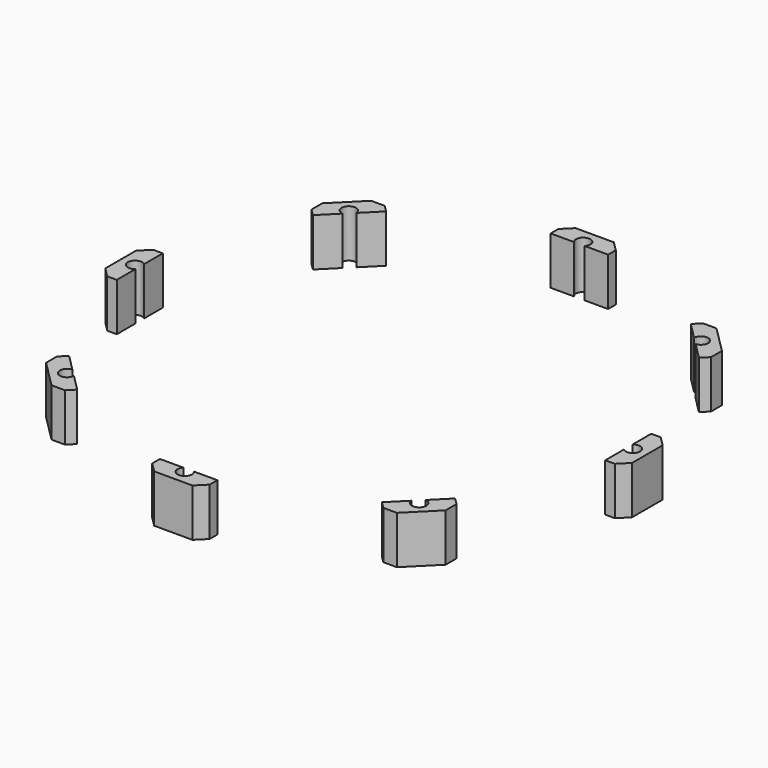
from build123d import *

# Parameters (mm, degrees)
CYLINDER1215_R               = 1.5
CYLINDER1215_DEPTH           = 50
CYLINDER1215_PLACEMENT_ANGLE = 45
CYLINDER1213_R               = 1.5
CYLINDER1213_DEPTH           = 50
CYLINDER1220_R               = 1.5
CYLINDER1220_DEPTH           = 50
CYLINDER1220_PLACEMENT_ANGLE = 135
CYLINDER1216_R               = 1.5
CYLINDER1216_DEPTH           = 50
CYLINDER1217_R               = 1.5
CYLINDER1217_DEPTH           = 50
CYLINDER1217_PLACEMENT_ANGLE = 225
CYLINDER1218_R               = 1.5
CYLINDER1218_DEPTH           = 50
CYLINDER1219_R               = 1.5
CYLINDER1219_DEPTH           = 50
CYLINDER1219_PLACEMENT_ANGLE = 45
CYLINDER1214_R               = 1.5
CYLINDER1214_DEPTH           = 50
BOX511_W                     = 4
BOX511_H                     = 12
BOX511_DEPTH                 = 10
CHAMFER018_SIZE              = 2
CHAMFER018_PLACEMENT_ANGLE   = 45
CHAMFER019_SIZE              = 2
CHAMFER019_PLACEMENT_ANGLE   = 90
CHAMFER020_SIZE              = 2
CHAMFER020_PLACEMENT_ANGLE   = 135
CHAMFER021_SIZE              = 2
CHAMFER021_PLACEMENT_ANGLE   = 180
CHAMFER022_SIZE              = 2
CHAMFER022_PLACEMENT_ANGLE   = 225
CHAMFER023_SIZE              = 2
CHAMFER023_PLACEMENT_ANGLE   = 90
CHAMFER024_SIZE              = 2
CHAMFER024_PLACEMENT_ANGLE   = 45
CHAMFER017_SIZE              = 2


with BuildPart() as obj1:
    # Cylinder1215 → Cylinder1215 (new body)
    with BuildSketch(Plane.XY):
        Circle(CYLINDER1215_R)
    extrude(amount=CYLINDER1215_DEPTH)


with BuildPart() as obj1_1:
    # Cylinder1215 placement: moved
    add(obj1.part.moved(Location((36.769553, 36.769553, 0))).rotate(Axis((36.769553, 36.769553, 0), (0, 0, 1)), CYLINDER1215_PLACEMENT_ANGLE))


with BuildPart() as obj2:
    # Cylinder1213 → Cylinder1213 (new body)
    with BuildSketch(Plane(origin=(0, 52, 0), x_dir=(0, 1, 0), z_dir=(0, 0, 1))):
        Circle(CYLINDER1213_R)
    extrude(amount=CYLINDER1213_DEPTH)


with BuildPart() as obj3:
    # Cylinder1220 → Cylinder1220 (new body)
    with BuildSketch(Plane.XY):
        Circle(CYLINDER1220_R)
    extrude(amount=CYLINDER1220_DEPTH)


with BuildPart() as obj3_1:
    # Cylinder1220 placement: moved
    add(obj3.part.moved(Location((-36.769553, 36.769553, 0))).rotate(Axis((-36.769553, 36.769553, 0), (0, 0, 1)), CYLINDER1220_PLACEMENT_ANGLE))


with BuildPart() as obj4:
    # Cylinder1216 → Cylinder1216 (new body)
    with BuildSketch(Plane(origin=(-52, 0, 0), x_dir=(-1, 0, 0), z_dir=(0, 0, 1))):
        Circle(CYLINDER1216_R)
    extrude(amount=CYLINDER1216_DEPTH)


with BuildPart() as obj5:
    # Cylinder1217 → Cylinder1217 (new body)
    with BuildSketch(Plane.XY):
        Circle(CYLINDER1217_R)
    extrude(amount=CYLINDER1217_DEPTH)


with BuildPart() as obj5_1:
    # Cylinder1217 placement: moved
    add(obj5.part.moved(Location((-36.769553, -36.769553, 0))).rotate(Axis((-36.769553, -36.769553, 0), (0, 0, 1)), CYLINDER1217_PLACEMENT_ANGLE))


with BuildPart() as obj6:
    # Cylinder1218 → Cylinder1218 (new body)
    with BuildSketch(Plane(origin=(0, -52, 0), x_dir=(0, -1, 0), z_dir=(0, 0, 1))):
        Circle(CYLINDER1218_R)
    extrude(amount=CYLINDER1218_DEPTH)


with BuildPart() as obj7:
    # Cylinder1219 → Cylinder1219 (new body)
    with BuildSketch(Plane.XY):
        Circle(CYLINDER1219_R)
    extrude(amount=CYLINDER1219_DEPTH)


with BuildPart() as obj7_1:
    # Cylinder1219 placement: moved
    add(obj7.part.moved(Location((36.769553, -36.769553, 0))).rotate(Axis((36.769553, -36.769553, 0), (0, 0, -1)), CYLINDER1219_PLACEMENT_ANGLE))


with BuildPart() as compound899:
    # Cylinder1214 → Cylinder1214 (new body)
    with BuildSketch(Plane(origin=(52, 0, 0), x_dir=(1, 0, 0), z_dir=(0, 0, 1))):
        Circle(CYLINDER1214_R)
    extrude(amount=CYLINDER1214_DEPTH)

    # Compound899: union obj1, obj2, obj3, obj4, obj5, obj6, obj7
    add(obj1_1.part)
    add(obj2.part)
    add(obj3_1.part)
    add(obj4.part)
    add(obj5_1.part)
    add(obj6.part)
    add(obj7_1.part)


with BuildPart() as compound899_1:
    # Compound899 placement: moved
    add(compound899.part.moved(Location((0, 0, -7))))


with BuildPart() as krychle511:
    # Box511 → Box511 (new body)
    with BuildSketch(Plane(origin=(51, -6, 12), x_dir=(1, 0, 0), z_dir=(0, 0, 1))):
        with Locations((2, 6)):
            Rectangle(BOX511_W, BOX511_H)
    extrude(amount=BOX511_DEPTH)


with BuildPart() as chamfer018:
    # Chamfer018 base: copy of Krychle511
    add(krychle511.part)

    # Chamfer018
    chamfer018_edges = [chamfer018.edges().sort_by_distance(p)[0] for p in [
        (55, -6, 17),
        (55, 6, 17),
    ]]
    chamfer(chamfer018_edges, length=CHAMFER018_SIZE)


with BuildPart() as chamfer018_1:
    # Chamfer018 placement: moved
    add(chamfer018.part.rotate(Axis((0, 0, 0), (0, 0, 1)), CHAMFER018_PLACEMENT_ANGLE))


with BuildPart() as chamfer019:
    # Chamfer019 base: copy of Krychle511
    add(krychle511.part)

    # Chamfer019
    chamfer019_edges = [chamfer019.edges().sort_by_distance(p)[0] for p in [
        (55, -6, 17),
        (55, 6, 17),
    ]]
    chamfer(chamfer019_edges, length=CHAMFER019_SIZE)


with BuildPart() as chamfer019_1:
    # Chamfer019 placement: moved
    add(chamfer019.part.rotate(Axis((0, 0, 0), (0, 0, 1)), CHAMFER019_PLACEMENT_ANGLE))


with BuildPart() as chamfer020:
    # Chamfer020 base: copy of Krychle511
    add(krychle511.part)

    # Chamfer020
    chamfer020_edges = [chamfer020.edges().sort_by_distance(p)[0] for p in [
        (55, -6, 17),
        (55, 6, 17),
    ]]
    chamfer(chamfer020_edges, length=CHAMFER020_SIZE)


with BuildPart() as chamfer020_1:
    # Chamfer020 placement: moved
    add(chamfer020.part.rotate(Axis((0, 0, 0), (0, 0, 1)), CHAMFER020_PLACEMENT_ANGLE))


with BuildPart() as chamfer021:
    # Chamfer021 base: copy of Krychle511
    add(krychle511.part)

    # Chamfer021
    chamfer021_edges = [chamfer021.edges().sort_by_distance(p)[0] for p in [
        (55, -6, 17),
        (55, 6, 17),
    ]]
    chamfer(chamfer021_edges, length=CHAMFER021_SIZE)


with BuildPart() as chamfer021_1:
    # Chamfer021 placement: moved
    add(chamfer021.part.rotate(Axis((0, 0, 0), (0, 0, 1)), CHAMFER021_PLACEMENT_ANGLE))


with BuildPart() as chamfer022:
    # Chamfer022 base: copy of Krychle511
    add(krychle511.part)

    # Chamfer022
    chamfer022_edges = [chamfer022.edges().sort_by_distance(p)[0] for p in [
        (55, -6, 17),
        (55, 6, 17),
    ]]
    chamfer(chamfer022_edges, length=CHAMFER022_SIZE)


with BuildPart() as chamfer022_1:
    # Chamfer022 placement: moved
    add(chamfer022.part.rotate(Axis((0, 0, 0), (0, 0, 1)), CHAMFER022_PLACEMENT_ANGLE))


with BuildPart() as chamfer023:
    # Chamfer023 base: copy of Krychle511
    add(krychle511.part)

    # Chamfer023
    chamfer023_edges = [chamfer023.edges().sort_by_distance(p)[0] for p in [
        (55, -6, 17),
        (55, 6, 17),
    ]]
    chamfer(chamfer023_edges, length=CHAMFER023_SIZE)


with BuildPart() as chamfer023_1:
    # Chamfer023 placement: moved
    add(chamfer023.part.rotate(Axis((0, 0, 0), (0, 0, -1)), CHAMFER023_PLACEMENT_ANGLE))


with BuildPart() as chamfer024:
    # Chamfer024 base: copy of Krychle511
    add(krychle511.part)

    # Chamfer024
    chamfer024_edges = [chamfer024.edges().sort_by_distance(p)[0] for p in [
        (55, -6, 17),
        (55, 6, 17),
    ]]
    chamfer(chamfer024_edges, length=CHAMFER024_SIZE)


with BuildPart() as chamfer024_1:
    # Chamfer024 placement: moved
    add(chamfer024.part.rotate(Axis((0, 0, 0), (0, 0, -1)), CHAMFER024_PLACEMENT_ANGLE))


with BuildPart() as cut449:
    # Chamfer017 base: copy of Krychle511
    add(krychle511.part)

    # Chamfer017
    chamfer017_edges = [cut449.edges().sort_by_distance(p)[0] for p in [
        (55, -6, 17),
        (55, 6, 17),
    ]]
    chamfer(chamfer017_edges, length=CHAMFER017_SIZE)

    # Compound901: union Chamfer018, Chamfer019, Chamfer020, Chamfer021, Chamfer022, Chamfer023, Chamfer024
    add(chamfer018_1.part)
    add(chamfer019_1.part)
    add(chamfer020_1.part)
    add(chamfer021_1.part)
    add(chamfer022_1.part)
    add(chamfer023_1.part)
    add(chamfer024_1.part)

    # Cut449: cut Compound899
    add(compound899_1.part, mode=Mode.SUBTRACT)


solid = cut449.part
